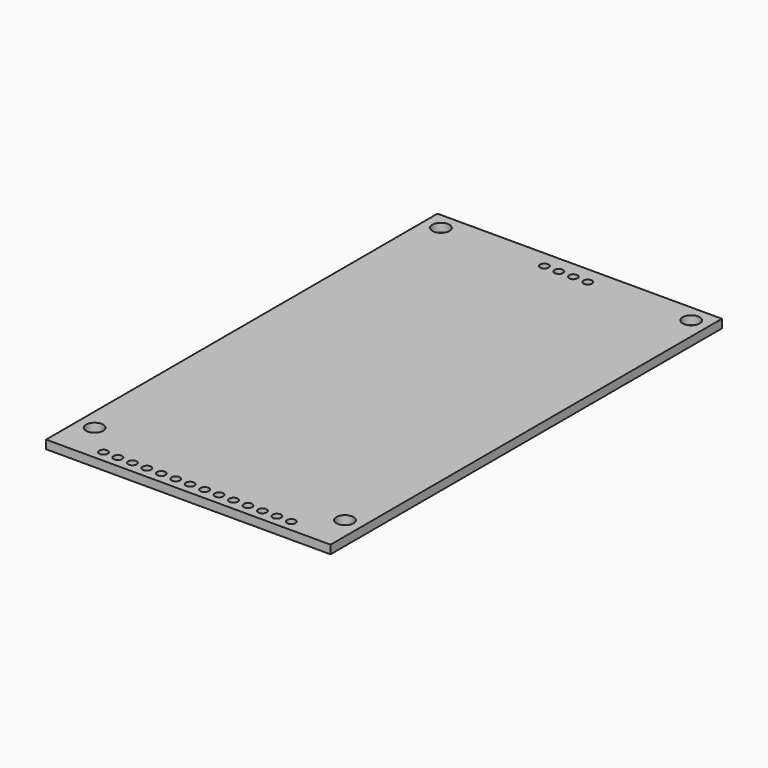
from build123d import *

# Parameters (mm, degrees)
F0_W     = 50
F0_H     = 86
F0_R     = 1.5
F1_DEPTH = 1.5
F2_R     = 0.75
F3_DEPTH = 1.501


with BuildPart() as f1:
    # F0 (on Top) → F1 (new body)
    with BuildSketch(Plane.XY):
        Rectangle(F0_W, F0_H)
        with Locations((-22, -36.08)):
            Circle(F0_R, mode=Mode.SUBTRACT)
        with Locations((22, -36.08)):
            Circle(F0_R, mode=Mode.SUBTRACT)
        with Locations((-22, 40)):
            Circle(F0_R, mode=Mode.SUBTRACT)
        with Locations((22, 40)):
            Circle(F0_R, mode=Mode.SUBTRACT)
    extrude(amount=F1_DEPTH)

    # F2 (on face) → F3 (cut, through all)
    with BuildSketch(Plane.XY.offset(1.5)):
        with Locations((-16.51, -41)):
            Circle(F2_R)
        with Locations((-13.97, -41)):
            Circle(F2_R)
        with Locations((-11.43, -41)):
            Circle(F2_R)
        with Locations((-8.89, -41)):
            Circle(F2_R)
        with Locations((-6.35, -41)):
            Circle(F2_R)
        with Locations((-3.81, -41)):
            Circle(F2_R)
        with Locations((-1.27, -41)):
            Circle(F2_R)
        with Locations((1.27, -41)):
            Circle(F2_R)
        with Locations((3.81, -41)):
            Circle(F2_R)
        with Locations((6.35, -41)):
            Circle(F2_R)
        with Locations((8.89, -41)):
            Circle(F2_R)
        with Locations((11.43, -41)):
            Circle(F2_R)
        with Locations((13.97, -41)):
            Circle(F2_R)
        with Locations((16.51, -41)):
            Circle(F2_R)
        with Locations((-3.81, 40)):
            Circle(F2_R)
        with Locations((-1.27, 40)):
            Circle(F2_R)
        with Locations((1.27, 40)):
            Circle(F2_R)
        with Locations((3.81, 40)):
            Circle(F2_R)
    extrude(amount=-F3_DEPTH, mode=Mode.SUBTRACT)


solid = f1.part
